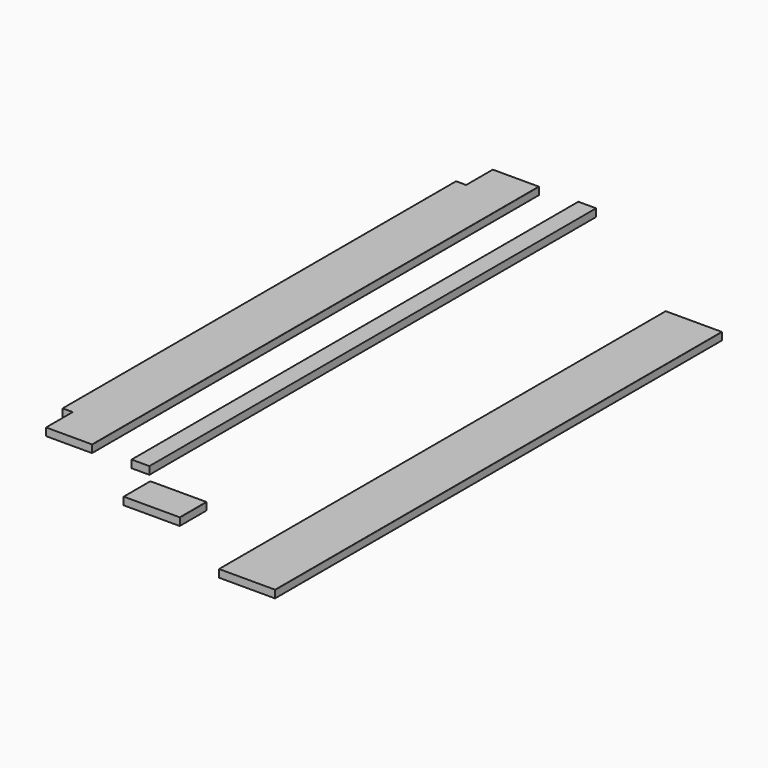
from build123d import *

# Parameters (mm, degrees)
F1_DEPTH  = 1384.3
F3_DEPTH  = 82.55
F5_DEPTH  = 1384.3
F6_W      = 24.7807378674
F6_H      = 82.55
F6_W_2    = 24.7539753819
F7_DEPTH  = 188.5651486045
F8_DEPTH  = 25.4
F10_DEPTH = 1384.3


with BuildPart() as f1:
    # F0 (on Front) → F1 (new body)
    with BuildSketch(Plane.XZ):
        with BuildLine():
            Line((66.1004254112, 22.9297725085), (-72.3295745888, 22.9297725085))
            ThreePointArc((-72.3295745888, 22.9297725085), (-72.7785873949, 22.7437853146), (-72.9645745888, 22.2947725085))
            Line((-72.9645745888, 22.2947725085), (-72.9645745888, 4.5147725085))
            ThreePointArc((-72.9645745888, 4.5147725085), (-72.7785873949, 4.0657597024), (-72.3295745888, 3.8797725085))
            Line((-72.3295745888, 3.8797725085), (66.1004254112, 3.8797725085))
            ThreePointArc((66.1004254112, 3.8797725085), (66.5494382172, 4.0657597024), (66.7354254112, 4.5147725085))
            Line((66.7354254112, 4.5147725085), (66.7354254112, 22.2947725085))
            ThreePointArc((66.7354254112, 22.2947725085), (66.5494382172, 22.7437853146), (66.1004254112, 22.9297725085))
        make_face()
    extrude(amount=-F1_DEPTH)


with BuildPart() as f3:
    # F2 (on Front) → F3 (new body)
    with BuildSketch(Plane.XZ):
        with BuildLine():
            Line((-170.195251379, 104.0761013269), (-308.625251379, 104.0761013269))
            ThreePointArc((-308.625251379, 104.0761013269), (-309.0742641851, 103.890114133), (-309.260251379, 103.4411013269))
            Line((-309.260251379, 103.4411013269), (-309.260251379, 85.6611013269))
            ThreePointArc((-309.260251379, 85.6611013269), (-309.0742641851, 85.2120885209), (-308.625251379, 85.0261013269))
            Line((-308.625251379, 85.0261013269), (-170.195251379, 85.0261013269))
            ThreePointArc((-170.195251379, 85.0261013269), (-169.746238573, 85.2120885209), (-169.560251379, 85.6611013269))
            Line((-169.560251379, 85.6611013269), (-169.560251379, 103.4411013269))
            ThreePointArc((-169.560251379, 103.4411013269), (-169.746238573, 103.890114133), (-170.195251379, 104.0761013269))
        make_face()
    extrude(amount=-F3_DEPTH)


with BuildPart() as f5:
    # F4 (on Front) → F5 (new body)
    with BuildSketch(Plane.XZ):
        with BuildLine():
            Line((-387.6461085415, 192.443921113), (-526.0761085415, 192.443921113))
            ThreePointArc((-526.0761085415, 192.443921113), (-526.5251213475, 192.2579339191), (-526.7111085415, 191.808921113))
            Line((-526.7111085415, 191.808921113), (-526.7111085415, 174.028921113))
            ThreePointArc((-526.7111085415, 174.028921113), (-526.5251213475, 173.579908307), (-526.0761085415, 173.393921113))
            Line((-526.0761085415, 173.393921113), (-387.6461085415, 173.393921113))
            ThreePointArc((-387.6461085415, 173.393921113), (-387.1970957354, 173.579908307), (-387.0111085415, 174.028921113))
            Line((-387.0111085415, 174.028921113), (-387.0111085415, 191.808921113))
            ThreePointArc((-387.0111085415, 191.808921113), (-387.1970957354, 192.2579339191), (-387.6461085415, 192.443921113))
        make_face()
    extrude(amount=-F5_DEPTH)

    # F6 (on face) → F7 (cut, through all)
    with BuildSketch(Plane.XY.offset(192.443921113)):
        with Locations((-513.6857396078, 41.275)):
            Rectangle(F6_W, F6_H)
        with Locations((-513.6991208506, 1343.025)):
            Rectangle(F6_W_2, F6_H)
    extrude(amount=-F7_DEPTH, mode=Mode.SUBTRACT)

    # F8 (cut): faces of the model
    f8_faces = [f5.faces().sort_by_distance(p)[0] for p in [
        (-526.0761085415, 41.275, 182.918921113),
        (-526.0761085415, 1343.025, 182.918921113),
    ]]
    extrude(f8_faces, amount=-F8_DEPTH, mode=Mode.SUBTRACT)


with BuildPart() as f10:
    # F9 (on Front) → F10 (new body)
    with BuildSketch(Plane.XZ):
        with BuildLine():
            Line((-245.8532493448, 191.3300444126), (-289.0332493448, 191.3300444126))
            ThreePointArc((-289.0332493448, 191.3300444126), (-289.4822621509, 191.1440572187), (-289.6682493448, 190.6950444126))
            Line((-289.6682493448, 190.6950444126), (-289.6682493448, 172.9150444126))
            ThreePointArc((-289.6682493448, 172.9150444126), (-289.4822621509, 172.4660316066), (-289.0332493448, 172.2800444126))
            Line((-289.0332493448, 172.2800444126), (-245.8532493448, 172.2800444126))
            Line((-245.8532493448, 172.2800444126), (-245.2182493448, 172.2800444126))
            Line((-245.2182493448, 172.2800444126), (-245.2182493448, 172.9150444126))
            Line((-245.2182493448, 172.9150444126), (-245.2182493448, 190.6950444126))
            Line((-245.2182493448, 190.6950444126), (-245.2182493448, 191.3300444126))
            Line((-245.2182493448, 191.3300444126), (-245.8532493448, 191.3300444126))
        make_face()
    extrude(amount=-F10_DEPTH)


solid = Compound([f1.part, f3.part, f5.part, f10.part])
